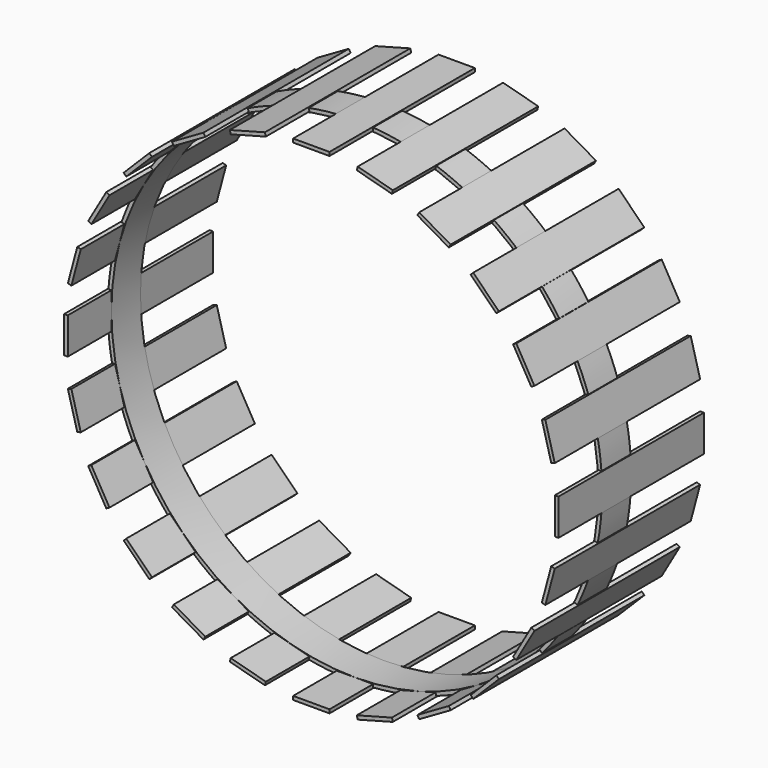
from build123d import *

# Parameters (mm, degrees)
F1_DEPTH = 50
F0_R     = 5
F2_COUNT = 24
F3_DEPTH = 50
F5_R     = 68
F5_R_2   = 67
F6_DEPTH = 10


with BuildPart() as f1:
    # F0 (on Front) → F1 (new body)
    with BuildSketch(Plane.XZ):
        Polygon((-5, 67), (0, 67), (5, 67), (5, 68), (-5, 68), align=None)
    extrude(amount=F1_DEPTH)


with BuildPart() as f1b:
    # F0 (on Front) → F1, piece 2 (new body)
    with BuildSketch(Plane.XZ):
        Circle(F0_R)
    extrude(amount=F1_DEPTH)

    # F3 (cut): a face of the model
    f3_faces = [f1b.faces().sort_by_distance(p)[0] for p in [
        (0, -50, 0),
    ]]
    extrude(f3_faces, amount=-F3_DEPTH, mode=Mode.SUBTRACT)


with BuildPart() as f2_1:
    # F2: instance of F1
    add(f1.part.rotate(Axis((0, 0, 0), (0, 1, 0)), 1 * 360 / F2_COUNT))


with BuildPart() as f2_2:
    # F2: instance of F1
    add(f1.part.rotate(Axis((0, 0, 0), (0, 1, 0)), 2 * 360 / F2_COUNT))


with BuildPart() as f2_3:
    # F2: instance of F1
    add(f1.part.rotate(Axis((0, 0, 0), (0, 1, 0)), 3 * 360 / F2_COUNT))


with BuildPart() as f2_4:
    # F2: instance of F1
    add(f1.part.rotate(Axis((0, 0, 0), (0, 1, 0)), 4 * 360 / F2_COUNT))


with BuildPart() as f2_5:
    # F2: instance of F1
    add(f1.part.rotate(Axis((0, 0, 0), (0, 1, 0)), 5 * 360 / F2_COUNT))


with BuildPart() as f2_6:
    # F2: instance of F1
    add(f1.part.rotate(Axis((0, 0, 0), (0, 1, 0)), 6 * 360 / F2_COUNT))


with BuildPart() as f2_7:
    # F2: instance of F1
    add(f1.part.rotate(Axis((0, 0, 0), (0, 1, 0)), 7 * 360 / F2_COUNT))


with BuildPart() as f2_8:
    # F2: instance of F1
    add(f1.part.rotate(Axis((0, 0, 0), (0, 1, 0)), 8 * 360 / F2_COUNT))


with BuildPart() as f2_9:
    # F2: instance of F1
    add(f1.part.rotate(Axis((0, 0, 0), (0, 1, 0)), 9 * 360 / F2_COUNT))


with BuildPart() as f2_10:
    # F2: instance of F1
    add(f1.part.rotate(Axis((0, 0, 0), (0, 1, 0)), 10 * 360 / F2_COUNT))


with BuildPart() as f2_11:
    # F2: instance of F1
    add(f1.part.rotate(Axis((0, 0, 0), (0, 1, 0)), 11 * 360 / F2_COUNT))


with BuildPart() as f2_12:
    # F2: instance of F1
    add(f1.part.rotate(Axis((0, 0, 0), (0, 1, 0)), 12 * 360 / F2_COUNT))


with BuildPart() as f2_13:
    # F2: instance of F1
    add(f1.part.rotate(Axis((0, 0, 0), (0, 1, 0)), 13 * 360 / F2_COUNT))


with BuildPart() as f2_14:
    # F2: instance of F1
    add(f1.part.rotate(Axis((0, 0, 0), (0, 1, 0)), 14 * 360 / F2_COUNT))


with BuildPart() as f2_15:
    # F2: instance of F1
    add(f1.part.rotate(Axis((0, 0, 0), (0, 1, 0)), 15 * 360 / F2_COUNT))


with BuildPart() as f2_16:
    # F2: instance of F1
    add(f1.part.rotate(Axis((0, 0, 0), (0, 1, 0)), 16 * 360 / F2_COUNT))


with BuildPart() as f2_17:
    # F2: instance of F1
    add(f1.part.rotate(Axis((0, 0, 0), (0, 1, 0)), 17 * 360 / F2_COUNT))


with BuildPart() as f2_18:
    # F2: instance of F1
    add(f1.part.rotate(Axis((0, 0, 0), (0, 1, 0)), 18 * 360 / F2_COUNT))


with BuildPart() as f2_19:
    # F2: instance of F1
    add(f1.part.rotate(Axis((0, 0, 0), (0, 1, 0)), 19 * 360 / F2_COUNT))


with BuildPart() as f2_20:
    # F2: instance of F1
    add(f1.part.rotate(Axis((0, 0, 0), (0, 1, 0)), 20 * 360 / F2_COUNT))


with BuildPart() as f2_21:
    # F2: instance of F1
    add(f1.part.rotate(Axis((0, 0, 0), (0, 1, 0)), 21 * 360 / F2_COUNT))


with BuildPart() as f2_22:
    # F2: instance of F1
    add(f1.part.rotate(Axis((0, 0, 0), (0, 1, 0)), 22 * 360 / F2_COUNT))


with BuildPart() as f2_23:
    # F2: instance of F1
    add(f1.part.rotate(Axis((0, 0, 0), (0, 1, 0)), 23 * 360 / F2_COUNT))


with BuildPart() as f1_1:
    add(f1.part)

    add(f2_1.part)  # F6 merges F2_1

    add(f2_2.part)  # F6 merges F2_2

    add(f2_3.part)  # F6 merges F2_3

    add(f2_4.part)  # F6 merges F2_4

    add(f2_5.part)  # F6 merges F2_5

    add(f2_6.part)  # F6 merges F2_6

    add(f2_7.part)  # F6 merges F2_7

    add(f2_8.part)  # F6 merges F2_8

    add(f2_9.part)  # F6 merges F2_9

    add(f2_10.part)  # F6 merges F2_10

    add(f2_11.part)  # F6 merges F2_11

    add(f2_12.part)  # F6 merges F2_12

    add(f2_13.part)  # F6 merges F2_13

    add(f2_14.part)  # F6 merges F2_14

    add(f2_15.part)  # F6 merges F2_15

    add(f2_16.part)  # F6 merges F2_16

    add(f2_17.part)  # F6 merges F2_17

    add(f2_18.part)  # F6 merges F2_18

    add(f2_19.part)  # F6 merges F2_19

    add(f2_20.part)  # F6 merges F2_20

    add(f2_21.part)  # F6 merges F2_21

    add(f2_22.part)  # F6 merges F2_22

    add(f2_23.part)  # F6 merges F2_23
    # F5 (on offset) → F6 (join)
    with BuildSketch(Plane.XZ.offset(25)):
        Circle(F5_R)
        Circle(F5_R_2, mode=Mode.SUBTRACT)
    extrude(amount=F6_DEPTH)


solid = f1_1.part
